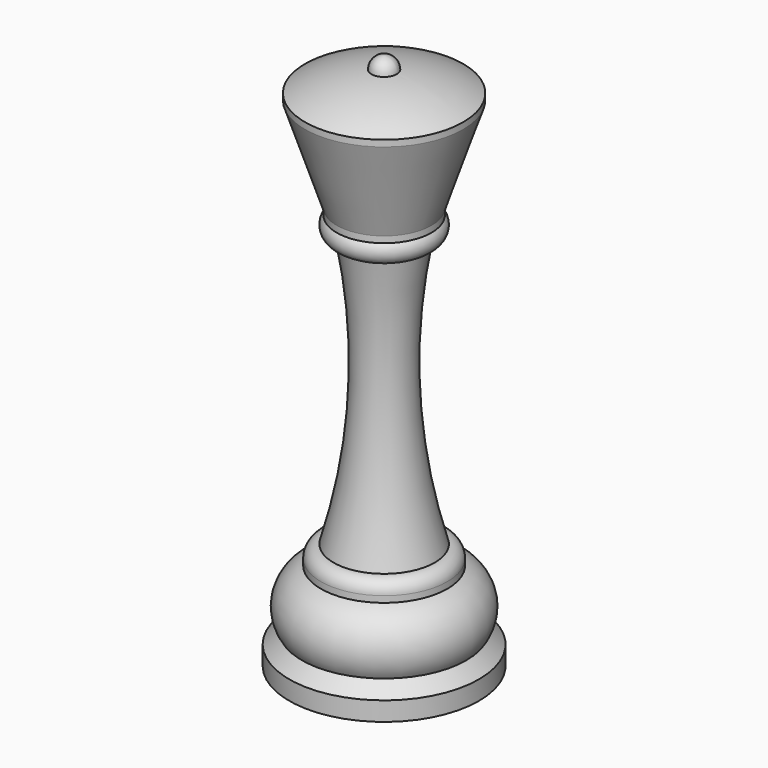
from build123d import *


with BuildPart() as f1:
    # F0 (on Front) → F1 (revolve)
    with BuildSketch(Plane.XZ):
        with BuildLine():
            ThreePointArc((2, -2), (1.414214, -0.585786), (0, 0))
            Line((0, 0), (0, -85))
            Line((0, -85), (15, -85))
            Line((15, -85), (15, -82))
            Line((15, -82), (13, -80))
            ThreePointArc((13, -80), (13.688326, -74.783119), (10, -71.03))
            Line((10, -71.03), (10, -70.03))
            ThreePointArc((10, -70.03), (9.414214, -68.615786), (8, -68.03))
            ThreePointArc((8, -68.03), (4.460256, -46.931858), (6, -25.59432))
            ThreePointArc((6, -25.59432), (7.822793, -24.419016), (7.5, -22.27432))
            Line((7.5, -22.27432), (7.5, -21.27432))
            Line((7.5, -21.27432), (12.5, -6.27))
            Line((12.5, -6.27), (12.5, -5.27))
            ThreePointArc((12.5, -5.27), (7.432036, -3.050479), (2, -2))
        make_face()
    revolve(axis=Axis((0, 0, -42.5), (0, 0, -1)))


solid = f1.part
